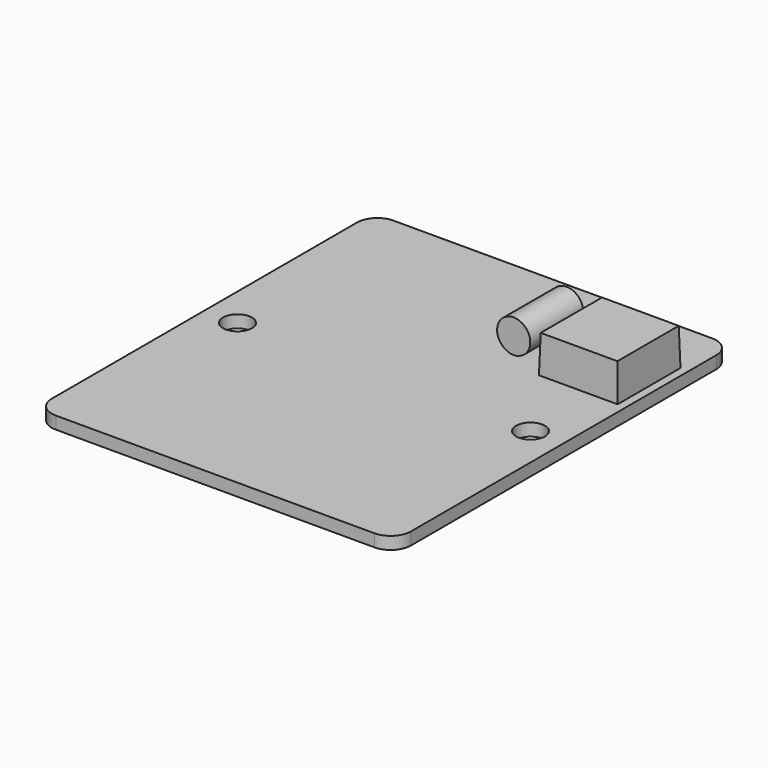
from build123d import *

# Parameters (mm, degrees)
F0_W      = 43.4
F0_H      = 51
F1_DEPTH  = 1.5
F2_R      = 2.45
F3_R      = 1.75
F4_DEPTH  = 1.501
F5_W      = 9.5
F5_H      = 9.5
F6_DEPTH  = 4.5
F6_TAPER  = 1.5
F7_W      = 7.85
F7_H      = 4.95
F8_DEPTH  = 8.5
F9_W      = 4.25
F9_H      = 8
F10_DEPTH = 4.15
F12_DEPTH = 44.651
F13_DEPTH = 8.5


with BuildPart() as f1:
    # F0 (on Top) → F1 (new body)
    with BuildSketch(Plane.XY):
        Rectangle(F0_W, F0_H)
    extrude(amount=F1_DEPTH)

    # F2
    f2_edges = [f1.edges().sort_by_distance(p)[0] for p in [
        (-21.7, 25.5, 0.75),
        (21.7, 25.5, 0.75),
        (21.7, -25.5, 0.75),
        (-21.7, -25.5, 0.75),
    ]]
    fillet(f2_edges, radius=F2_R)

    # F3 (on face) → F4 (cut, through all)
    with BuildSketch(Plane.XY.offset(1.5)):
        with Locations((-17.7, 0)):
            Circle(F3_R)
        with Locations((17.7, 0)):
            Circle(F3_R)
    extrude(amount=-F4_DEPTH, mode=Mode.SUBTRACT)

    # F5 (on face) → F6 (join)
    with BuildSketch(Plane.XY.offset(1.5)):
        with Locations((15.95, 14.15)):
            Rectangle(F5_W, F5_H)
    extrude(amount=F6_DEPTH, taper=F6_TAPER)

    # F7 (on face) → F8 (join)
    with BuildSketch(Plane.XY.offset(1.5)):
        with Locations((-15.775, -20.075)):
            Rectangle(F7_W, F7_H)
    extrude(amount=F8_DEPTH)

    # F9 (on face) → F10 (join)
    with BuildSketch(Plane.XY.offset(1.5)):
        with Locations((6.725, 15.15)):
            Rectangle(F9_W, F9_H)
    extrude(amount=F10_DEPTH)

    # F11 (on face) → F12 (cut, through all)
    with BuildSketch(Plane(origin=(0, 19.15, 0), x_dir=(-1, 0, 0), z_dir=(0, 1, 0))):
        with BuildLine():
            ThreePointArc((-7.190682743, 1.55), (-7.9935060714, 5.0634608153), (-4.7462730221, 3.5))
            ThreePointArc((-4.7462730221, 3.5), (-5.1828122069, 2.2527669508), (-6.3018633013, 1.55))
            Line((-6.3018633013, 1.55), (-6.3018633013, 1.5))
            Line((-6.3018633013, 1.5), (-4.6, 1.5))
            Line((-4.6, 1.5), (-4.6, 5.65))
            Line((-4.6, 5.65), (-8.85, 5.65))
            Line((-8.85, 5.65), (-8.85, 1.5))
            Line((-8.85, 1.5), (-7.190682743, 1.5))
            Line((-7.190682743, 1.5), (-7.190682743, 1.55))
        make_face()
    extrude(amount=-F12_DEPTH, mode=Mode.SUBTRACT)

    # F13 (cut, through all): a face of the model
    f13_faces = [f1.faces().sort_by_distance(p)[0] for p in [
        (-15.775, -20.075, 10),
    ]]
    extrude(f13_faces, amount=-F13_DEPTH, mode=Mode.SUBTRACT)


solid = f1.part
